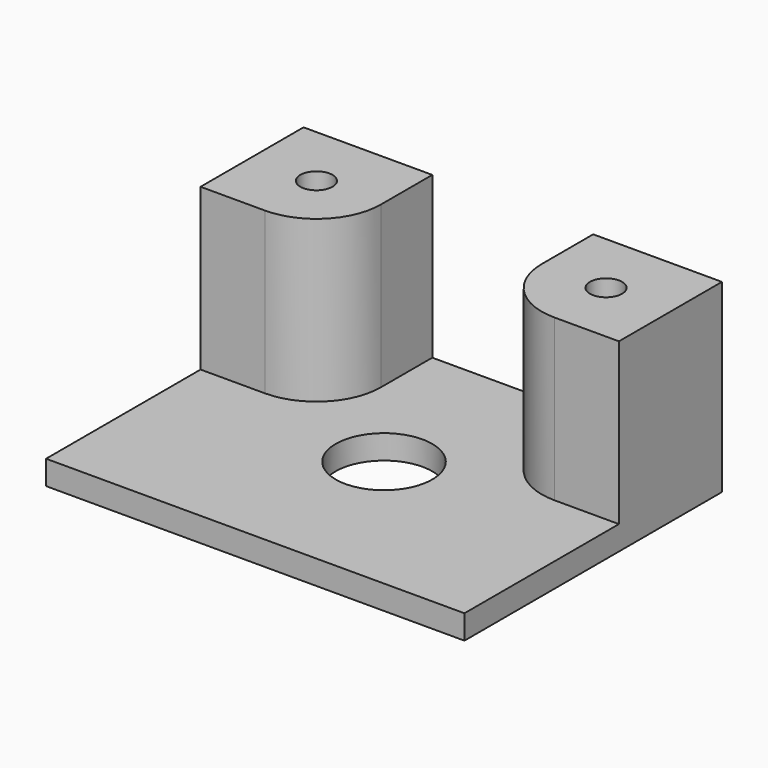
from build123d import *

# Parameters (mm, degrees)
F0_W     = 165.1
F0_H     = 127
F1_DEPTH = 9.525
F3_DEPTH = 63.5
F5_D     = 38.1
F6_R     = 6.35
F7_DEPTH = 25.4


with BuildPart() as f1:
    # F0 (on Top) → F1 (new body)
    with BuildSketch(Plane.XY):
        Rectangle(F0_W, F0_H)
    extrude(amount=F1_DEPTH)

    # F2 (on face) → F3 (join)
    with BuildSketch(Plane.XY.offset(9.525)):
        with BuildLine():
            Line((-31.75, 63.5), (-82.55, 63.5))
            Line((-82.55, 63.5), (-82.55, 12.7))
            Line((-82.55, 12.7), (-57.15, 12.7))
            ThreePointArc((-57.15, 12.7), (-39.189488, 20.139488), (-31.75, 38.1))
            Line((-31.75, 38.1), (-31.75, 63.5))
        make_face()
        with BuildLine():
            Line((82.55, 63.5), (31.75, 63.5))
            Line((31.75, 63.5), (31.75, 38.1))
            ThreePointArc((31.75, 38.1), (39.189488, 20.139488), (57.15, 12.7))
            Line((57.15, 12.7), (82.55, 12.7))
            Line((82.55, 12.7), (82.55, 63.5))
        make_face()
    extrude(amount=F3_DEPTH)

    # F5 (through all)
    with Locations(Plane.XY.offset(9.525)):
        with Locations((0, 0)):
            Hole(F5_D / 2)

    # F6 (on face) → F7 (cut)
    with BuildSketch(Plane.XY.offset(73.025)):
        with Locations((-57.15, 38.1)):
            Circle(F6_R)
        with Locations((57.15, 38.1)):
            Circle(F6_R)
    extrude(amount=-F7_DEPTH, mode=Mode.SUBTRACT)


solid = f1.part
